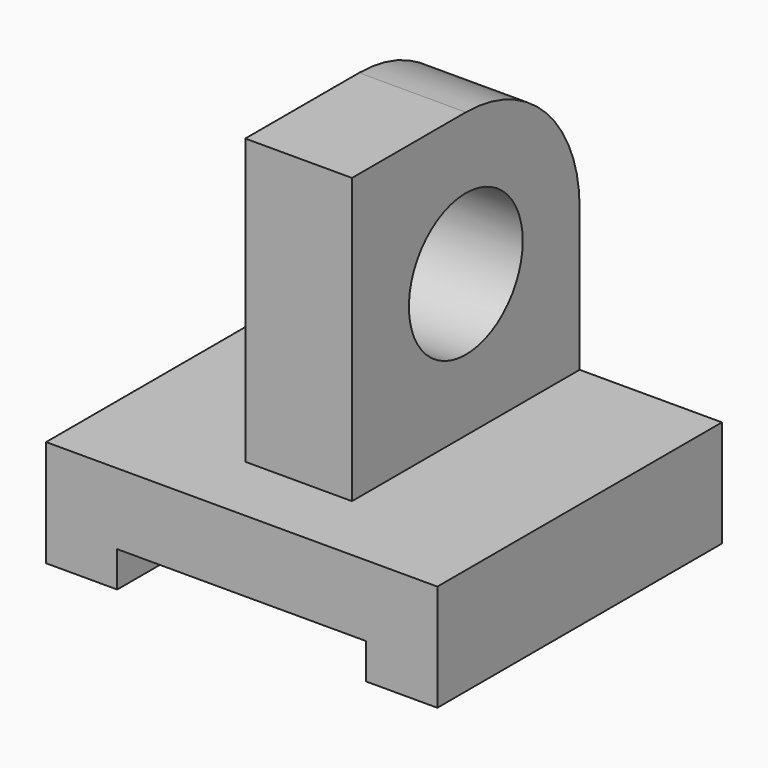
from build123d import *

# Parameters (mm, degrees)
F1_DEPTH = 25
F2_W     = 40
F2_H     = 40
F3_DEPTH = 7.5
F4_R     = 10
F5_DEPTH = 15
F6_R     = 20


with BuildPart() as f1:
    # F0 (on Front) → F1 (new body, symmetric)
    with BuildSketch(Plane.XZ):
        Polygon((27.5, 7.5), (-27.5, 7.5), (-27.5, -7.5), (-17.5, -7.5), (-17.5, -2.5), (17.5, -2.5), (17.5, -7.5), (27.5, -7.5), align=None)
    extrude(amount=F1_DEPTH, both=True)

    # F2 (on Right) → F3 (join, symmetric)
    with BuildSketch(Plane.YZ):
        with Locations((5, 27.5)):
            Rectangle(F2_W, F2_H)
    extrude(amount=F3_DEPTH, both=True)

    # F4 (on face) → F5 (cut, through all)
    with BuildSketch(Plane.YZ.offset(7.5)):
        with Locations((5, 27.5)):
            Circle(F4_R)
    extrude(amount=-F5_DEPTH, mode=Mode.SUBTRACT)

    # F6
    f6_edges = [f1.edges().sort_by_distance(p)[0] for p in [
        (0, 25, 47.5),
    ]]
    fillet(f6_edges, radius=F6_R)


solid = f1.part
